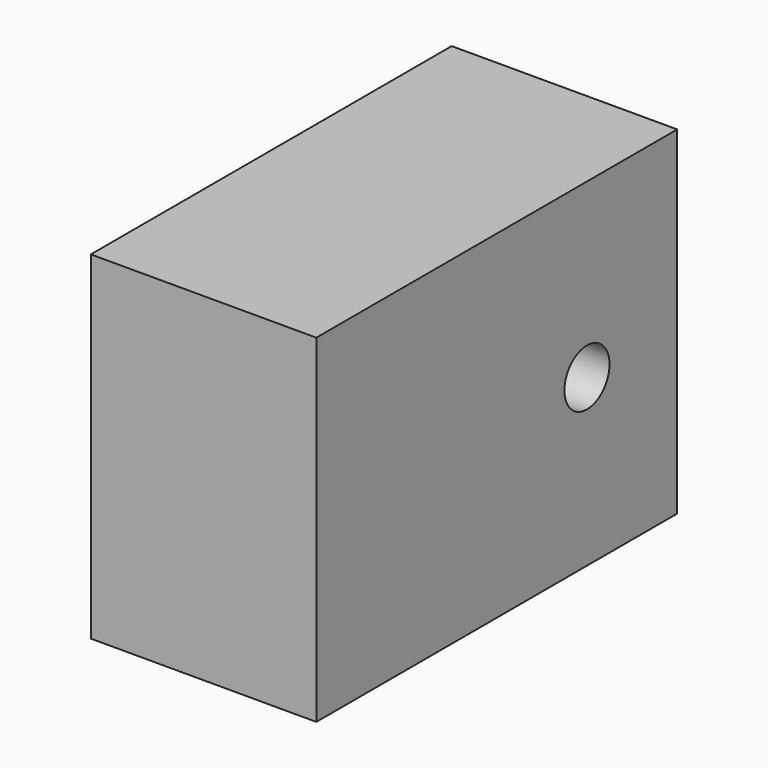
from build123d import *

# Parameters (mm, degrees)
F0_W     = 40
F0_H     = 80
F1_DEPTH = 60
F2_R     = 5
F3_DEPTH = 40.001


with BuildPart() as f1:
    # F0 (on Top) → F1 (new body)
    with BuildSketch(Plane.XY):
        Rectangle(F0_W, F0_H)
    extrude(amount=-F1_DEPTH)

    # F2 (on face) → F3 (cut, through all)
    with BuildSketch(Plane.YZ.offset(20)):
        with Locations((20, -30.592106)):
            Circle(F2_R)
    extrude(amount=-F3_DEPTH, mode=Mode.SUBTRACT)


solid = f1.part
